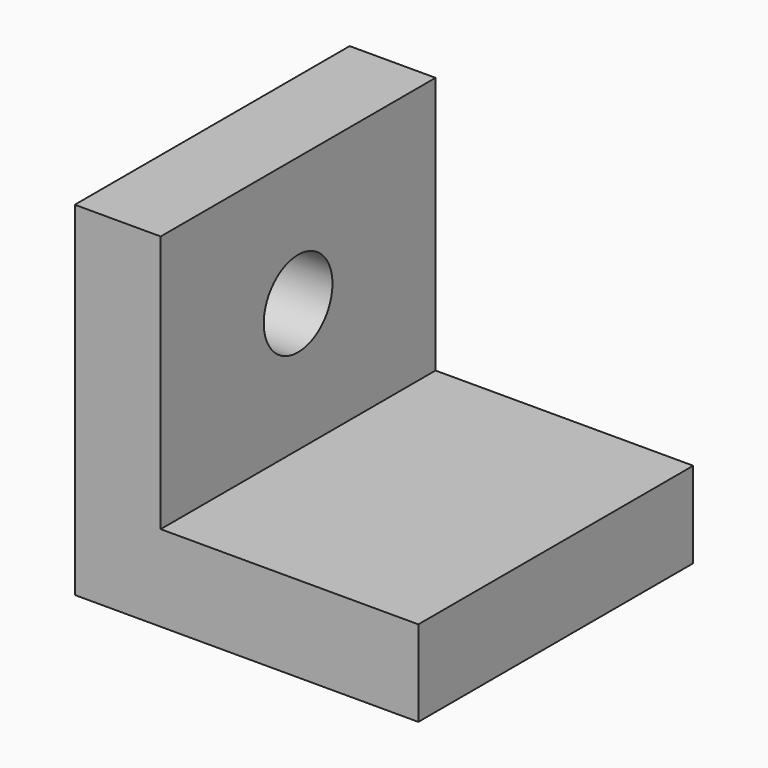
from build123d import *

# Parameters (mm, degrees)
F1_DEPTH = 50.8
F2_R     = 6.35
F3_DEPTH = 25.4


with BuildPart() as f1:
    # F0 (on Front) → F1 (new body)
    with BuildSketch(Plane.XZ):
        Polygon((0, 50.8), (0, 0), (50.8, 0), (50.8, 12.7), (12.7, 12.7), (12.7, 50.8), align=None)
    extrude(amount=F1_DEPTH)

    # F2 (on face) → F3 (cut)
    with BuildSketch(Plane.YZ.offset(12.7)):
        with Locations((-25.4, 31.75)):
            Circle(F2_R)
    extrude(amount=-F3_DEPTH, mode=Mode.SUBTRACT)


solid = f1.part
